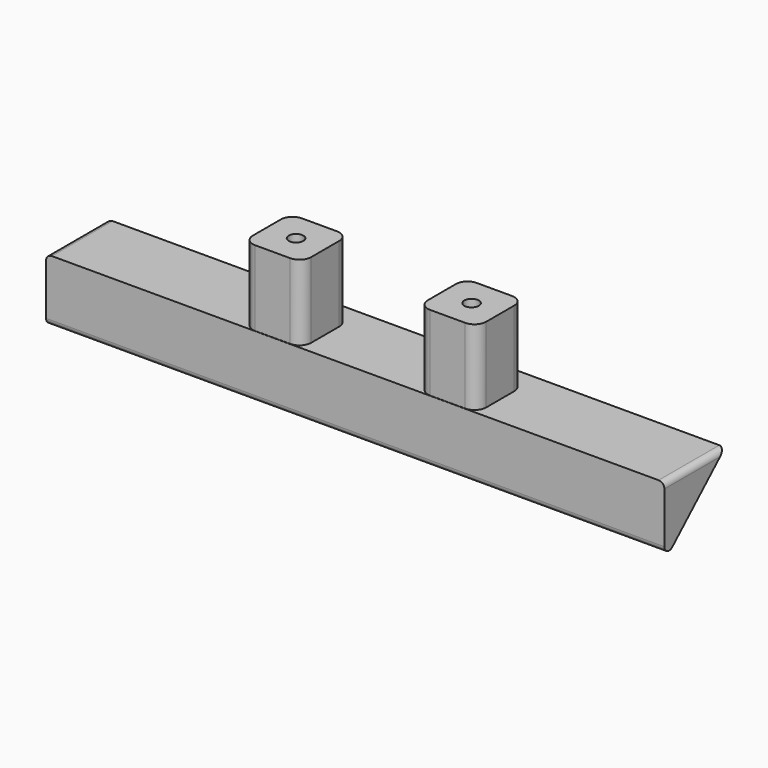
from build123d import *

# Parameters (mm, degrees)
F1_DEPTH       = 53
F2_W           = 10
F2_H           = 13
F3_DEPTH       = 5
F4_DEPTH       = 5
F7_D           = 2.5
F7_DEPTH       = 13.5
F7_TIP         = 0.7510757738
F7_2_D         = 2.5
F7_2_DEPTH     = 13.5
F7_2_TIP       = 0.7510757738
F7_ON_F5_D     = 2.5
F7_ON_F5_DEPTH = 13.5
F7_ON_F5_TIP   = 0.7510757738
F8_R           = 2
F8_2_R         = 2
F9_R           = 1


with BuildPart() as f1:
    # F0 (on Right) → F1 (new body, symmetric)
    with BuildSketch(Plane.YZ):
        Polygon((7.9469728339, 1.278479274), (-5.0530271661, 1.278479274), (-5.0530271661, -10.721520726), align=None)
    extrude(amount=F1_DEPTH, both=True)

    # F2 (on Front) → F4 (join, symmetric)
    with BuildSketch(Plane.XZ):
        with Locations((15.8046587557, 7.7083671931)):
            Rectangle(F2_W, F2_H)
    extrude(amount=F4_DEPTH, both=True)

    # F7
    with Locations(Plane.XY.offset(14.2083671931)):
        with Locations((-14.1953412443, 0)):
            Hole(F7_D / 2, depth=F7_DEPTH)
            with Locations((0, 0, -(F7_DEPTH + F7_TIP / 2))):  # 118° drill point
                Cone(0, F7_D / 2, F7_TIP, mode=Mode.SUBTRACT)

    # F7 on F5
    with Locations(Plane.XY.offset(14.2083671931)):
        with Locations((15.9049257636, 0)):
            Hole(F7_ON_F5_D / 2, depth=F7_ON_F5_DEPTH)
            with Locations((0, 0, -(F7_ON_F5_DEPTH + F7_ON_F5_TIP / 2))):  # 118° drill point
                Cone(0, F7_ON_F5_D / 2, F7_ON_F5_TIP, mode=Mode.SUBTRACT)

    # F8#2
    f8_2_edges = [f1.edges().sort_by_distance(p)[0] for p in [
        (10.804659, -5, 7.743423),
        (20.804659, -5, 7.743423),
        (20.804659, 5, 7.743423),
        (10.804659, 5, 7.743423),
    ]]
    fillet(f8_2_edges, radius=F8_2_R)

    # F9
    f9_edges = [f1.edges().sort_by_distance(p)[0] for p in [
        (53, 1.446973, 1.278479),
        (-53, 1.446973, 1.278479),
        (0, -5.053027, -10.721521),
    ]]
    fillet(f9_edges, radius=F9_R)


with BuildPart() as f3:
    # F2 (on Front) → F3 (new body, symmetric)
    with BuildSketch(Plane.XZ):
        with Locations((-14.1953412443, 7.7083671931)):
            Rectangle(F2_W, F2_H)
    extrude(amount=F3_DEPTH, both=True)

    # F7#2
    with Locations(Plane.XY.offset(14.2083671931)):
        with Locations((-14.1953412443, 0)):
            Hole(F7_2_D / 2, depth=F7_2_DEPTH)
            with Locations((0, 0, -(F7_2_DEPTH + F7_2_TIP / 2))):  # 118° drill point
                Cone(0, F7_2_D / 2, F7_2_TIP, mode=Mode.SUBTRACT)

    # F8
    f8_edges = [f3.edges().sort_by_distance(p)[0] for p in [
        (-9.195341, -5, 7.708367),
        (-9.195341, 5, 7.708367),
        (-19.195341, 5, 7.708367),
        (-19.195341, -5, 7.708367),
    ]]
    fillet(f8_edges, radius=F8_R)


solid = Compound([f1.part, f3.part])
